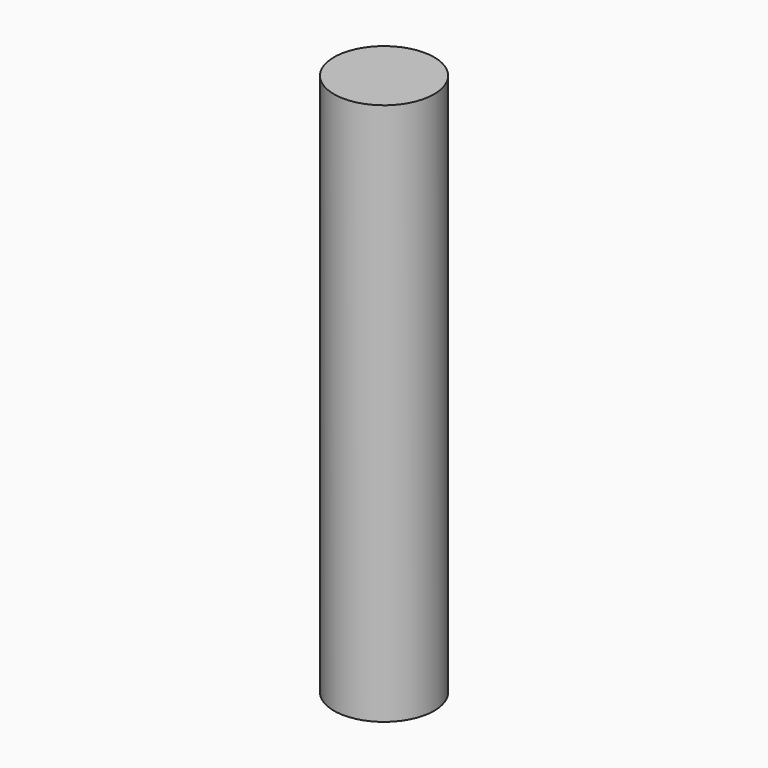
from build123d import *

# Parameters (mm, degrees)
CYLINDER_R     = 1.3843
CYLINDER_DEPTH = 15


with BuildPart() as part:
    # Cylinder → Cylinder (new body)
    with BuildSketch(Plane.XY.offset(-2.5)):
        Circle(CYLINDER_R)
    extrude(amount=CYLINDER_DEPTH)


solid = part.part
